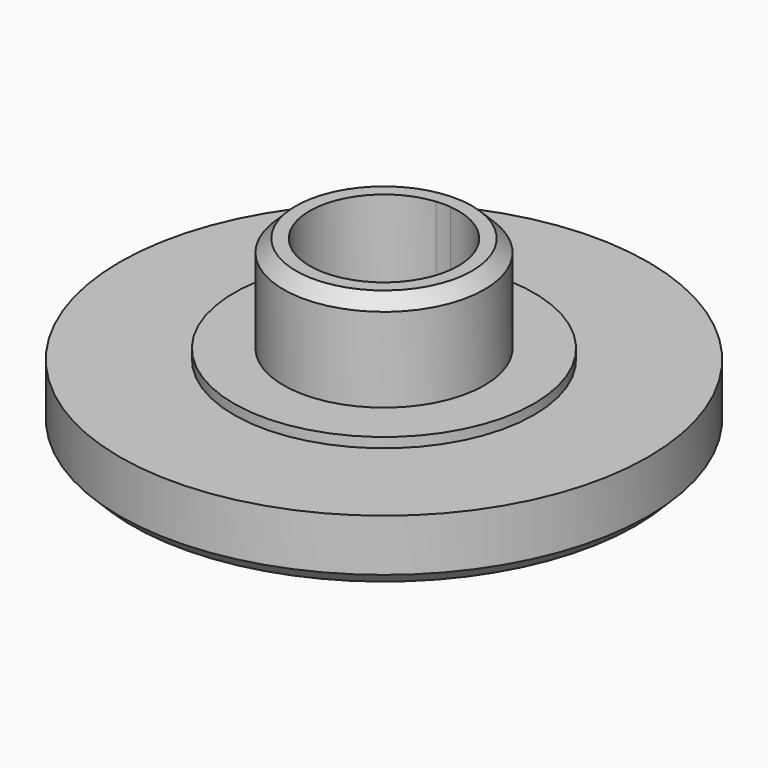
from build123d import *

# Parameters (mm, degrees)
F2_SIZE  = 0.5
F3_SIZE  = 0.5
F6_DEPTH = 3.9


with BuildPart() as f1:
    # F0 (on Front) → F1 (revolve)
    with BuildSketch(Plane.XZ):
        with BuildLine():
            add(Edge.make_bspline(
                [(1.5, 2.389568), (3.847685, 2.088384), (6.806025, 1.195458), (7.95, 0)],
                knots=[1.564524, 1.564524, 1.564524, 1.564524, 8.333817, 8.333817, 8.333817, 8.333817], degree=3))
            Line((7.95, 0), (10.65, 0))
            Line((10.65, 0), (10.65, 2.6))
            Line((10.65, 2.6), (6.05, 2.6))
            Line((6.05, 2.6), (6.05, 3))
            Line((6.05, 3), (4.05, 3))
            Line((4.05, 3), (4.05, 6.9))
            Line((4.05, 6.9), (0, 6.9))
            Line((0, 6.9), (0, 2.889568))
            Line((0, 2.889568), (1.5, 2.889568))
            Line((1.5, 2.889568), (1.5, 2.389568))
        make_face()
        with BuildLine():
            Line((0, 2.889568), (0, 2.5))
            add(Edge.make_bspline(
                [(0, 2.5), (0.447422, 2.497178), (0.957401, 2.459178), (1.5, 2.389568)],
                knots=[0, 0, 0, 0, 1.564524, 1.564524, 1.564524, 1.564524], degree=3))
            Line((1.5, 2.389568), (1.5, 2.889568))
            Line((1.5, 2.889568), (0, 2.889568))
        make_face()
    revolve(axis=Axis((0, 0, 3.45), (0, 0, -1)))

    # F2
    f2_edges = [f1.edges().sort_by_distance(p)[0] for p in [
        (-4.05, 0, 6.9),
    ]]
    chamfer(f2_edges, length=F2_SIZE)

    # F3
    f3_edges = [f1.edges().sort_by_distance(p)[0] for p in [
        (-10.65, 0, 0),
    ]]
    chamfer(f3_edges, length=F3_SIZE)

    # F5 (on offset) → F6 (cut)
    with BuildSketch(Plane.XY.offset(6.9)):
        with BuildLine():
            ThreePointArc((0.3, -2.984962), (2.22486, -2.012461), (3, 0))
            ThreePointArc((3, 0), (2.22486, 2.012461), (0.3, 2.984962))
            Line((0.3, 2.984962), (0.3, 0))
            Line((0.3, 0), (0.3, -2.984962))
        make_face()
        with BuildLine():
            Line((0.3, 0), (0.3, 2.984962))
            ThreePointArc((0.3, 2.984962), (0, 3), (-0.3, 2.984962))
            Line((-0.3, 2.984962), (-0.3, 0))
            Line((-0.3, 0), (0, 0))
            Line((0, 0), (0.3, 0))
        make_face()
        with BuildLine():
            ThreePointArc((-0.3, -2.984962), (0, -3), (0.3, -2.984962))
            Line((0.3, -2.984962), (0.3, 0))
            Line((0.3, 0), (0, 0))
            Line((0, 0), (-0.3, 0))
            Line((-0.3, 0), (-0.3, -2.984962))
        make_face()
        with BuildLine():
            Line((-0.3, 0), (-0.3, 2.984962))
            ThreePointArc((-0.3, 2.984962), (-3, 0), (-0.3, -2.984962))
            Line((-0.3, -2.984962), (-0.3, 0))
        make_face()
    extrude(amount=-F6_DEPTH, mode=Mode.SUBTRACT)


solid = f1.part
